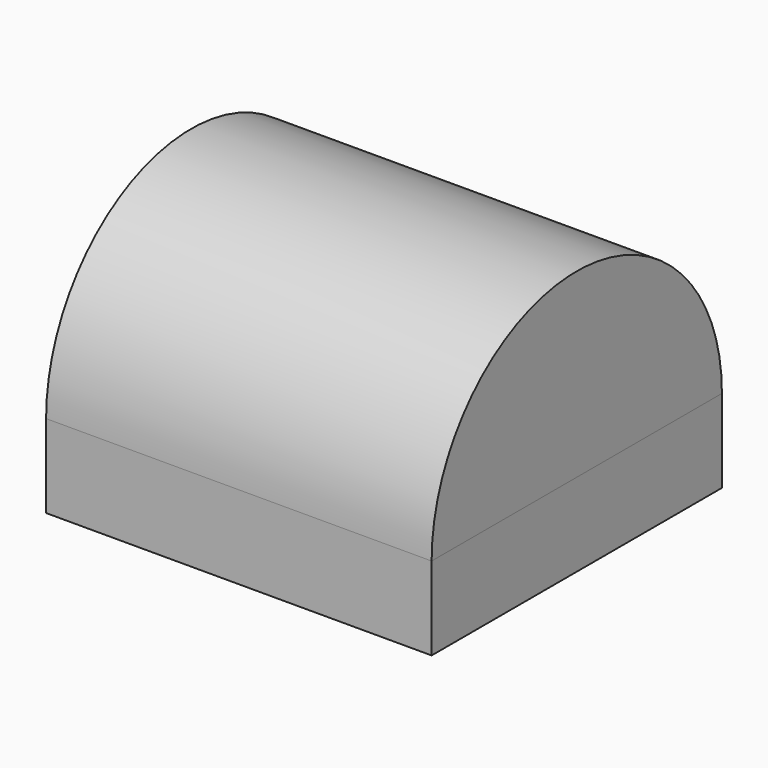
from build123d import *

# Parameters (mm, degrees)
F0_W     = 1295.4
F0_H     = 1219.2
F0_W_2   = 1219.2
F0_H_2   = 1143
F1_DEPTH = 279.4
F3_DEPTH = 1295.4
F4_T     = -2.5


with BuildPart() as f1:
    # F0 (on Top) → F1 (new body)
    with BuildSketch(Plane.XY):
        Rectangle(F0_W, F0_H)
        Rectangle(F0_W_2, F0_H_2, mode=Mode.SUBTRACT)
    extrude(amount=F1_DEPTH)


with BuildPart() as f3:
    # F2 (on face) → F3 (new body, through all)
    with BuildSketch(Plane.YZ.offset(647.7)):
        with BuildLine():
            Line((-609.6, 279.4), (609.6, 279.4))
            ThreePointArc((609.6, 279.4), (0, 889), (-609.6, 279.4))
        make_face()
    extrude(amount=-F3_DEPTH)

    # F4
    f4_openings = [f3.faces().sort_by_distance(p)[0] for p in [
        (0, 0, 279.4),
    ]]
    offset(amount=F4_T, openings=f4_openings)


solid = Compound([f1.part, f3.part])
